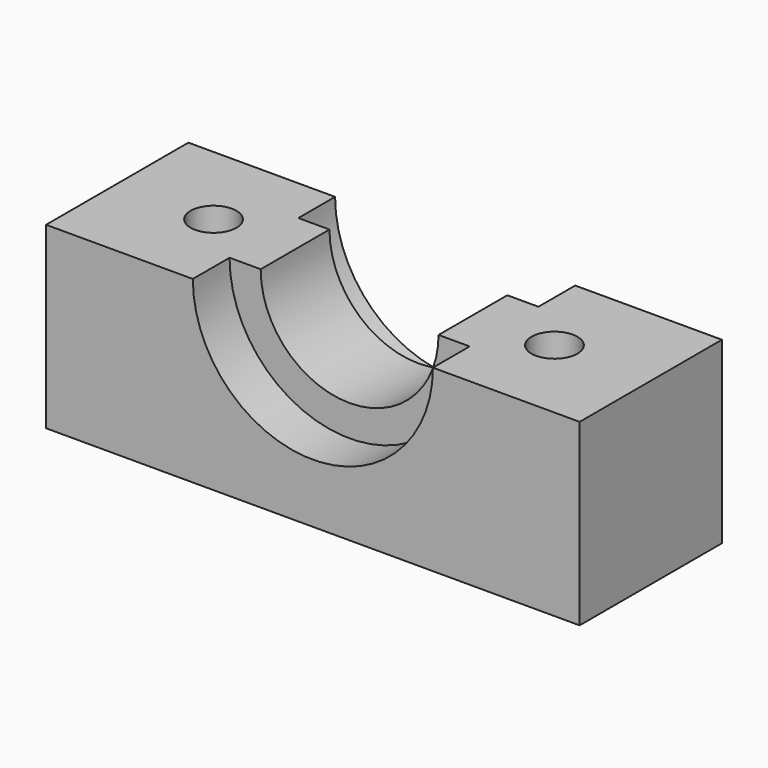
from build123d import *

# Parameters (mm, degrees)
F0_W     = 36
F0_H     = 12
F0_R     = 3
F0_R_2   = 1.55
F1_DEPTH = 12.09
F2_DEPTH = 10
F4_DEPTH = 12
F5_DEPTH = 3.1
F7_DEPTH = 3.1


with BuildPart() as f1:
    # F0 (on Top) → F1 (new body)
    with BuildSketch(Plane.XY):
        Rectangle(F0_W, F0_H)
        with Locations((-11.5, 0)):
            Circle(F0_R, mode=Mode.SUBTRACT)
        with Locations((11.5, 0)):
            Circle(F0_R, mode=Mode.SUBTRACT)
        with Locations((11.5, 0)):
            Circle(F0_R)
        with Locations((11.5, 0)):
            Circle(F0_R_2, mode=Mode.SUBTRACT)
        with Locations((-11.5, 0)):
            Circle(F0_R)
        with Locations((-11.5, 0)):
            Circle(F0_R_2, mode=Mode.SUBTRACT)
    extrude(amount=F1_DEPTH)

    # F0 (on Top) → F2 (cut)
    with BuildSketch(Plane.XY):
        with Locations((-11.5, 0)):
            Circle(F0_R)
        with Locations((-11.5, 0)):
            Circle(F0_R_2, mode=Mode.SUBTRACT)
        with Locations((11.5, 0)):
            Circle(F0_R)
        with Locations((11.5, 0)):
            Circle(F0_R_2, mode=Mode.SUBTRACT)
    extrude(amount=F2_DEPTH, mode=Mode.SUBTRACT)

    # F3 (on face) → F4 (cut, through all)
    with BuildSketch(Plane.XZ.offset(6)):
        with BuildLine():
            Line((6, 12.09), (-6, 12.09))
            ThreePointArc((-6, 12.09), (0, 6.09), (6, 12.09))
        make_face()
    extrude(amount=-F4_DEPTH, mode=Mode.SUBTRACT)

    # F3 (on face) → F5 (cut)
    with BuildSketch(Plane.XZ.offset(6)):
        with BuildLine():
            Line((-6, 12.09), (-8.1, 12.09))
            ThreePointArc((-8.1, 12.09), (0, 3.99), (8.1, 12.09))
            Line((8.1, 12.09), (6, 12.09))
            ThreePointArc((6, 12.09), (0, 6.09), (-6, 12.09))
        make_face()
    extrude(amount=-F5_DEPTH, mode=Mode.SUBTRACT)

    # F6 (on face) → F7 (cut)
    with BuildSketch(Plane(origin=(0, 6, 0), x_dir=(-1, 0, 0), z_dir=(0, 1, 0))):
        with BuildLine():
            Line((-6, 12.09), (-8.1, 12.09))
            ThreePointArc((-8.1, 12.09), (0, 3.99), (8.1, 12.09))
            Line((8.1, 12.09), (6, 12.09))
            ThreePointArc((6, 12.09), (0, 6.09), (-6, 12.09))
        make_face()
    extrude(amount=-F7_DEPTH, mode=Mode.SUBTRACT)


solid = f1.part
